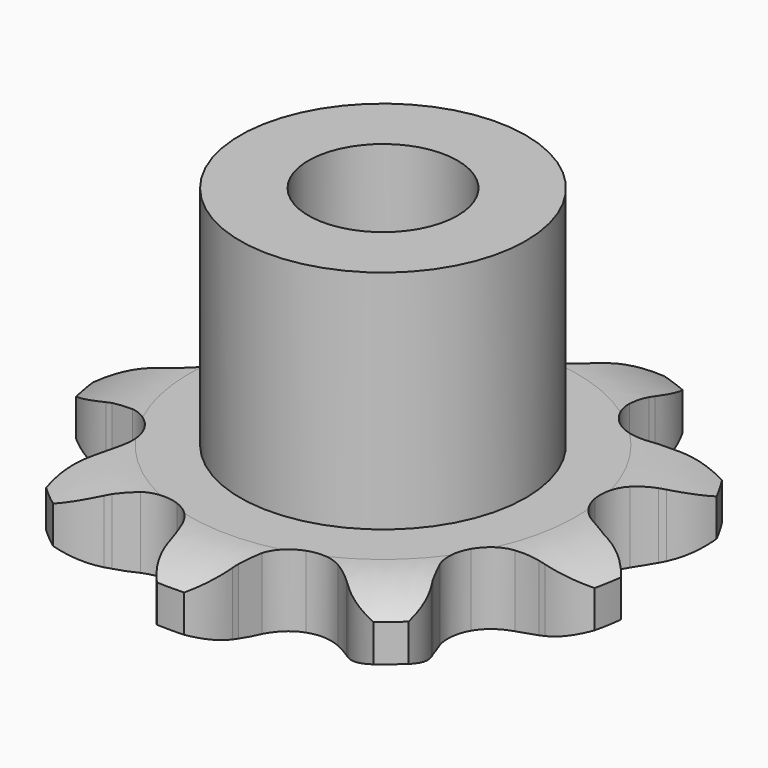
from build123d import *

# Parameters (mm, degrees)
PAD_DEPTH         = 2.9
SKETCH001_R       = 5.75
PAD001_DEPTH      = 12
SKETCH002_R       = 3
POCKET_DEPTH      = 0.001
POCKET_DEPTH_BACK = -12.001


with BuildPart() as part:
    # Sprocket → Pad (new body)
    with BuildSketch(Plane.XY):
        with BuildLine():
            ThreePointArc((-3.803572, 10.450228), (-2.712022, 9.979344), (-1.914294, 9.097956))
            Line((-1.914294, 9.097956), (-1.787441, 8.877252))
            ThreePointArc((-1.787441, 8.877252), (-1.545894, 8.502923), (-1.267216, 8.155353))
            ThreePointArc((-1.267216, 8.155353), (-0.694473, 7.7354), (0, 7.586729))
            ThreePointArc((0, 7.586729), (0.694473, 7.7354), (1.267216, 8.155353))
            ThreePointArc((1.267216, 8.155353), (1.545894, 8.502923), (1.787441, 8.877252))
            Line((1.787441, 8.877252), (1.914294, 9.097956))
            ThreePointArc((1.914294, 9.097956), (2.712022, 9.979344), (3.803572, 10.450228))
            ThreePointArc((3.803572, 10.450228), (4.33707, 9.387875), (4.381619, 8.199923))
            Line((4.381619, 8.199923), (4.336928, 7.949314))
            ThreePointArc((4.336928, 7.949314), (4.28135, 7.507298), (4.271416, 7.061913))
            ThreePointArc((4.271416, 7.061913), (4.440222, 6.372058), (4.876655, 5.811772))
            ThreePointArc((4.876655, 5.811772), (5.504216, 5.479262), (6.212903, 5.432812))
            Line((6.212903, 5.432812), (7.075446, 5.651425))
            ThreePointArc((7.075446, 5.651425), (7.194325, 5.696944), (7.314488, 5.738954))
            ThreePointArc((7.314488, 5.738954), (8.492128, 5.901367), (9.630983, 5.56045))
            ThreePointArc((9.630983, 5.56045), (9.356798, 4.403715), (8.627324, 3.465055))
            Line((8.627324, 3.465055), (8.432001, 3.301804))
            ThreePointArc((8.432001, 3.301804), (8.105303, 2.998925), (7.811405, 2.664126))
            ThreePointArc((7.811405, 2.664126), (7.497288, 2.02716), (7.47147, 1.317422))
            ThreePointArc((7.47147, 1.317422), (7.738476, 0.659316), (8.251504, 0.168198))
            Line((8.251504, 0.168198), (9.052772, -0.218767))
            ThreePointArc((9.052772, -0.218767), (9.173097, -0.260311), (9.292151, -0.305368))
            ThreePointArc((9.292151, -0.305368), (10.298673, -0.937925), (10.951949, -1.931124))
            ThreePointArc((10.951949, -1.931124), (9.998376, -2.640993), (8.836208, -2.891151))
            Line((8.836208, -2.891151), (8.581646, -2.890657))
            ThreePointArc((8.581646, -2.890657), (8.136694, -2.912678), (7.69635, -2.980235))
            ThreePointArc((7.69635, -2.980235), (7.046289, -3.266269), (6.5703, -3.793364))
            ThreePointArc((6.5703, -3.793364), (6.351816, -4.469131), (6.429134, -5.175117))
            Line((6.429134, -5.175117), (6.794205, -5.986595))
            ThreePointArc((6.794205, -5.986595), (6.859676, -6.095763), (6.921914, -6.206805))
            ThreePointArc((6.921914, -6.206805), (7.286355, -7.338352), (7.148377, -8.519104))
            ThreePointArc((7.148377, -8.519104), (5.961603, -8.44995), (4.910532, -7.894555))
            Line((4.910532, -7.894555), (4.715844, -7.730547))
            ThreePointArc((4.715844, -7.730547), (4.360836, -7.461407), (3.980088, -7.230111))
            ThreePointArc((3.980088, -7.230111), (3.298253, -7.031374), (2.594814, -7.129193))
            ThreePointArc((2.594814, -7.129193), (1.993072, -7.506422), (1.598501, -8.096938))
            Line((1.598501, -8.096938), (1.356554, -8.953229))
            ThreePointArc((1.356554, -8.953229), (1.336536, -9.07894), (1.312836, -9.204009))
            ThreePointArc((1.312836, -9.204009), (0.86467, -10.305082), (0, -11.120901))
            ThreePointArc((0, -11.120901), (-0.86467, -10.305082), (-1.312836, -9.204009))
            Line((-1.312836, -9.204009), (-1.356554, -8.953229))
            ThreePointArc((-1.356554, -8.953229), (-1.455506, -8.518861), (-1.598501, -8.096938))
            ThreePointArc((-1.598501, -8.096938), (-1.993072, -7.506422), (-2.594814, -7.129193))
            ThreePointArc((-2.594814, -7.129193), (-3.298253, -7.031374), (-3.980088, -7.230111))
            Line((-3.980088, -7.230111), (-4.715844, -7.730547))
            ThreePointArc((-4.715844, -7.730547), (-4.811984, -7.81398), (-4.910532, -7.894555))
            ThreePointArc((-4.910532, -7.894555), (-5.961603, -8.44995), (-7.148377, -8.519104))
            ThreePointArc((-7.148377, -8.519104), (-7.286355, -7.338352), (-6.921914, -6.206805))
            Line((-6.921914, -6.206805), (-6.794205, -5.986595))
            ThreePointArc((-6.794205, -5.986595), (-6.5908, -5.590245), (-6.429134, -5.175117))
            ThreePointArc((-6.429134, -5.175117), (-6.351816, -4.469131), (-6.5703, -3.793364))
            ThreePointArc((-6.5703, -3.793364), (-7.046289, -3.266269), (-7.69635, -2.980235))
            Line((-7.69635, -2.980235), (-8.581646, -2.890657))
            ThreePointArc((-8.581646, -2.890657), (-8.708923, -2.892772), (-8.836208, -2.891151))
            ThreePointArc((-8.836208, -2.891151), (-9.998376, -2.640993), (-10.951949, -1.931124))
            ThreePointArc((-10.951949, -1.931124), (-10.298673, -0.937925), (-9.292151, -0.305368))
            Line((-9.292151, -0.305368), (-9.052772, -0.218767))
            ThreePointArc((-9.052772, -0.218767), (-8.642186, -0.045891), (-8.251504, 0.168198))
            ThreePointArc((-8.251504, 0.168198), (-7.738476, 0.659316), (-7.47147, 1.317422))
            ThreePointArc((-7.47147, 1.317422), (-7.497288, 2.02716), (-7.811405, 2.664126))
            Line((-7.811405, 2.664126), (-8.432001, 3.301804))
            ThreePointArc((-8.432001, 3.301804), (-8.53086, 3.381996), (-8.627324, 3.465055))
            ThreePointArc((-8.627324, 3.465055), (-9.356798, 4.403715), (-9.630983, 5.56045))
            ThreePointArc((-9.630983, 5.56045), (-8.492128, 5.901367), (-7.314488, 5.738954))
            Line((-7.314488, 5.738954), (-7.075446, 5.651425))
            ThreePointArc((-7.075446, 5.651425), (-6.649797, 5.519936), (-6.212903, 5.432812))
            ThreePointArc((-6.212903, 5.432812), (-5.504216, 5.479262), (-4.876655, 5.811772))
            ThreePointArc((-4.876655, 5.811772), (-4.440222, 6.372058), (-4.271416, 7.061913))
            Line((-4.271416, 7.061913), (-4.336928, 7.949314))
            ThreePointArc((-4.336928, 7.949314), (-4.361113, 8.074291), (-4.381619, 8.199923))
            ThreePointArc((-4.381619, 8.199923), (-4.33707, 9.387875), (-3.803572, 10.450228))
        make_face()
    extrude(amount=PAD_DEPTH)

    # Sketch → Groove (revolve, cut)
    with BuildSketch(Plane.XZ):
        with BuildLine():
            Line((7.789674, 0), (10.7, 0))
            Line((13.610326, 0), (10.7, 0))
            Line((13.610326, 2.9), (13.610326, 0))
            Line((10.7, 2.9), (13.610326, 2.9))
            Line((7.789674, 2.9), (10.7, 2.9))
            ThreePointArc((10.7, 2.2), (9.286337, 2.72254), (7.789674, 2.9))
            Line((10.7, 0.7), (10.7, 2.2))
            ThreePointArc((7.789674, 0), (9.286337, 0.17746), (10.7, 0.7))
        make_face()
    revolve(axis=Axis((0, 0, 0), (0, 0, 1)), mode=Mode.SUBTRACT)

    # Sketch001 → Pad001 (join)
    with BuildSketch(Plane.XY):
        Circle(SKETCH001_R)
    extrude(amount=PAD001_DEPTH)

    # Sketch002 → Pocket (cut, two sides)
    with BuildSketch(Plane.XY) as pocket_sk:
        Circle(SKETCH002_R)
    extrude(amount=-POCKET_DEPTH, mode=Mode.SUBTRACT)
    extrude(pocket_sk.sketch, amount=-POCKET_DEPTH_BACK, mode=Mode.SUBTRACT)


solid = part.part
